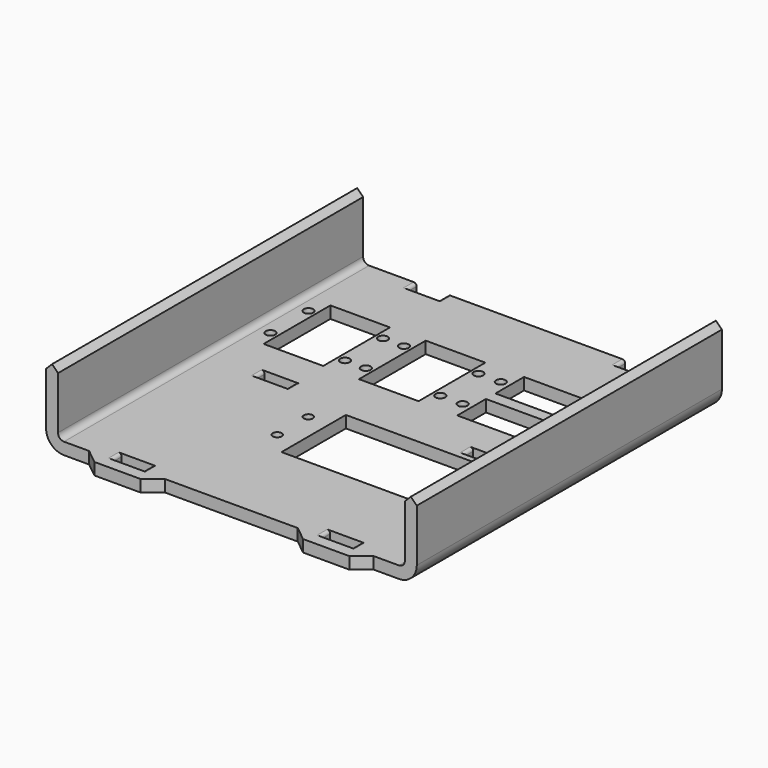
from build123d import *

# Parameters (mm, degrees)
SKETCH_W          = 124.4
SKETCH_H          = 132
PAD_DEPTH         = 4
SKETCH001_W       = 4
SKETCH001_H       = 132
PAD001_DEPTH      = 19.6
PAD002_DEPTH      = 132
SKETCH003_W       = 10.5
SKETCH003_H       = 4.25
POCKET_DEPTH      = 4.001
POCKET_DEPTH_BACK = 21.601
FILLET_R          = 6
FILLET001_R       = 2
FILLET002_R       = 1
SKETCH004_R       = 1.6
SKETCH004_R_2     = 1.5
SKETCH004_W       = 20
SKETCH004_H       = 28
SKETCH004_W_2     = 35
SKETCH004_H_2     = 12
SKETCH004_W_3     = 47
SKETCH004_H_3     = 27
POCKET001_DEPTH   = 4.001


with BuildPart() as part:
    # Sketch → Pad (new body)
    with BuildSketch(Plane.XY):
        with Locations((0, 66)):
            Rectangle(SKETCH_W, SKETCH_H)
    extrude(amount=-PAD_DEPTH)

    # Sketch001 → Pad001 (join)
    with BuildSketch(Plane.XY):
        with Locations((-60.2, 66)):
            Rectangle(SKETCH001_W, SKETCH001_H)
        with Locations((60.2, 66)):
            Rectangle(SKETCH001_W, SKETCH001_H)
    extrude(amount=PAD001_DEPTH)

    # Sketch002 → Pad002 (join)
    with BuildSketch(Plane.XZ):
        Polygon((-58.2, 19.6), (-62.2, 19.6), (-60.2, 21.6), align=None)
        Polygon((58.2, 19.6), (62.2, 19.6), (60.2, 21.6), align=None)
    extrude(amount=-PAD002_DEPTH)

    # Sketch003 → Pocket (cut, two sides)
    with BuildSketch(Plane.XY) as pocket_sk:
        with Locations((-35, 6.125)):
            Rectangle(SKETCH003_W, SKETCH003_H)
        with Locations((-35, 66.125)):
            Rectangle(SKETCH003_W, SKETCH003_H)
        with Locations((-35, 129.875)):
            Rectangle(SKETCH003_W, SKETCH003_H)
        with Locations((35, 6.125)):
            Rectangle(SKETCH003_W, SKETCH003_H)
        with Locations((35, 66.125)):
            Rectangle(SKETCH003_W, SKETCH003_H)
        with Locations((35, 129.875)):
            Rectangle(SKETCH003_W, SKETCH003_H)
        Polygon((-42.75, 0), (-27.25, 0), (-22.25, 4), (22.25, 4), (27.25, 0), (42.75, 0), (47.75, 4), (90, 4), (90, -46), (-90, -46), (-90, 4), (-47.75, 4), align=None)
    extrude(amount=-POCKET_DEPTH, mode=Mode.SUBTRACT)
    extrude(pocket_sk.sketch, amount=POCKET_DEPTH_BACK, mode=Mode.SUBTRACT)

    # Fillet
    fillet_edges = [part.edges().sort_by_distance(p)[0] for p in [
        (-62.2, 68, -4),
        (62.2, 68, -4),
    ]]
    fillet(fillet_edges, radius=FILLET_R)

    # Fillet001
    fillet001_edges = [part.edges().sort_by_distance(p)[0] for p in [
        (-58.2, 68, 0),
        (58.2, 68, 0),
    ]]
    fillet(fillet001_edges, radius=FILLET001_R)

    # Fillet002
    fillet002_edges = [part.edges().sort_by_distance(p)[0] for p in [
        (-40.25, 129.875, 0),
        (-29.75, 129.875, 0),
        (29.75, 129.875, 0),
        (40.25, 129.875, 0),
        (29.75, 66.125, 0),
        (40.25, 66.125, 0),
        (29.75, 6.125, 0),
        (40.25, 6.125, 0),
        (-40.25, 6.125, 0),
        (-29.75, 6.125, 0),
        (-40.25, 66.125, 0),
        (-29.75, 66.125, 0),
    ]]
    fillet(fillet002_edges, radius=FILLET002_R)

    # Sketch004 → Pocket001 (cut, through all)
    with BuildSketch(Plane.XY):
        with Locations((-52.5, 102)):
            Circle(SKETCH004_R)
        with Locations((-27.5, 102)):
            Circle(SKETCH004_R)
        with Locations((-27.5, 86)):
            Circle(SKETCH004_R)
        with Locations((-52.5, 86)):
            Circle(SKETCH004_R)
        with Locations((-20.5, 102)):
            Circle(SKETCH004_R)
        with Locations((4.5, 102)):
            Circle(SKETCH004_R)
        with Locations((4.5, 86)):
            Circle(SKETCH004_R)
        with Locations((-20.5, 86)):
            Circle(SKETCH004_R)
        with Locations((12, 102)):
            Circle(SKETCH004_R)
        with Locations((53, 102)):
            Circle(SKETCH004_R)
        with Locations((12, 86)):
            Circle(SKETCH004_R)
        with Locations((53, 86)):
            Circle(SKETCH004_R)
        with Locations((46, 55)):
            Circle(SKETCH004_R_2)
        with Locations((46, 42)):
            Circle(SKETCH004_R_2)
        with Locations((-15, 55)):
            Circle(SKETCH004_R_2)
        with Locations((-15, 42)):
            Circle(SKETCH004_R_2)
        with Locations((-40, 94)):
            Rectangle(SKETCH004_W, SKETCH004_H)
        with Locations((-8, 94)):
            Rectangle(SKETCH004_W, SKETCH004_H)
        with Locations((32.5, 102)):
            Rectangle(SKETCH004_W_2, SKETCH004_H_2)
        with Locations((32.5, 86)):
            Rectangle(SKETCH004_W_2, SKETCH004_H_2)
        with Locations((15.5, 48.5)):
            Rectangle(SKETCH004_W_3, SKETCH004_H_3)
    extrude(amount=-POCKET001_DEPTH, mode=Mode.SUBTRACT)


solid = part.part
